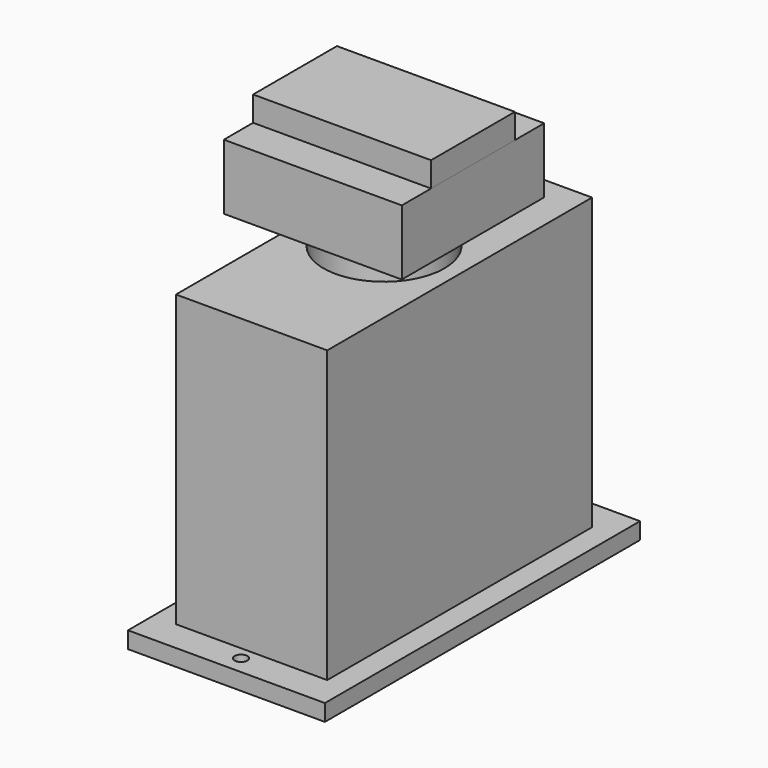
from build123d import *

# Parameters (mm, degrees)
F0_W      = 49.8
F0_H      = 99.6
F1_DEPTH  = 4.2
F2_W      = 38.25
F2_H      = 83.7
F3_DEPTH  = 73.4
F4_R      = 15.3
F5_DEPTH  = 9
F6_W      = 45
F6_H      = 45
F7_DEPTH  = 16.5
F8_W      = 45
F8_H      = 26.5
F9_DEPTH  = 6.3
F10_W     = 30
F10_H     = 74.8
F11_DEPTH = 3
F12_R     = 1.6
F13_DEPTH = 25
F14_SIZE  = 1.5


with BuildPart() as f1:
    # F0 (on Top) → F1 (new body)
    with BuildSketch(Plane.XY):
        Rectangle(F0_W, F0_H)
    extrude(amount=F1_DEPTH)

    # F2 (on face) → F3 (join)
    with BuildSketch(Plane.XY.offset(4.2)):
        Rectangle(F2_W, F2_H)
    extrude(amount=F3_DEPTH)

    # F4 (on face) → F5 (join)
    with BuildSketch(Plane.XY.offset(77.6)):
        Circle(F4_R)
    extrude(amount=F5_DEPTH)

    # F10 (on face) → F11 (cut)
    with BuildSketch(Plane(origin=(0, 0, 0), x_dir=(1, 0, 0), z_dir=(0, 0, -1))):
        Rectangle(F10_W, F10_H)
    extrude(amount=-F11_DEPTH, mode=Mode.SUBTRACT)

    # F12 (on face) → F13 (cut)
    with BuildSketch(Plane(origin=(0, 0, 0), x_dir=(1, 0, 0), z_dir=(0, 0, -1))):
        with Locations((0, -45.2)):
            Circle(F12_R)
        with Locations((0, 45.2)):
            Circle(F12_R)
    extrude(amount=-F13_DEPTH, mode=Mode.SUBTRACT)

    # F14
    f14_edges = [f1.edges().sort_by_distance(p)[0] for p in [
        (-1.6, 45.2, 0),
        (-1.6, -45.2, 0),
        (0, -37.4, 3),
        (-15, 0, 3),
        (0, 37.4, 3),
        (15, 0, 3),
    ]]
    chamfer(f14_edges, length=F14_SIZE)


with BuildPart() as f7:
    # F6 (on face) → F7 (new body)
    with BuildSketch(Plane.XY.offset(86.6)):
        Rectangle(F6_W, F6_H)
    extrude(amount=F7_DEPTH)


with BuildPart() as f9:
    # F8 (on face) → F9 (new body)
    with BuildSketch(Plane.XY.offset(103.1)):
        Rectangle(F8_W, F8_H)
    extrude(amount=F9_DEPTH)


solid = Compound([f1.part, f7.part, f9.part])
